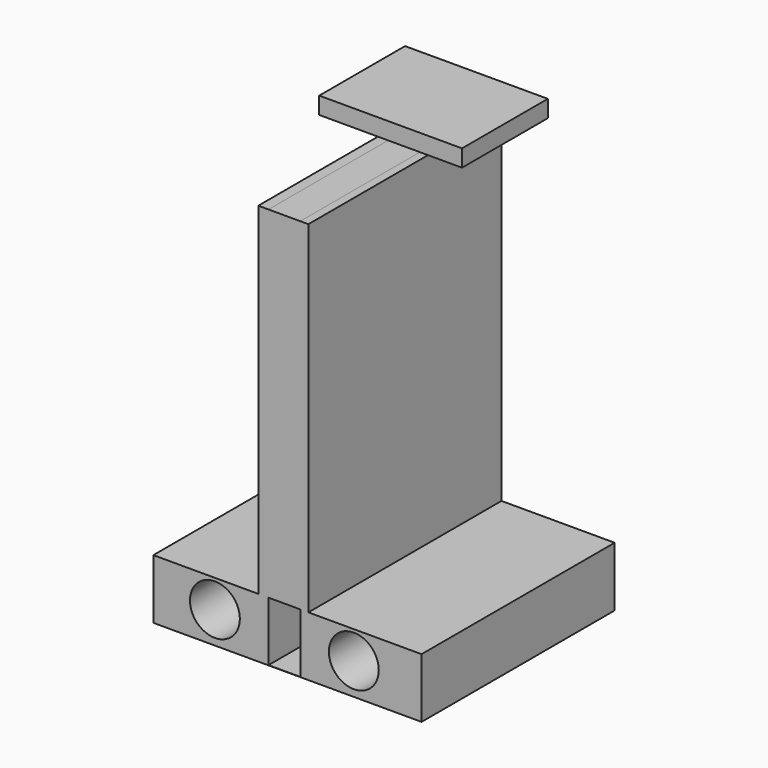
from build123d import *

# Parameters (mm, degrees)
F0_W     = 1.9
F0_H     = 63.7123174495
F0_H_2   = 11.0776825505
F0_R     = 4.65
F0_W_2   = 3.1124644447
F0_H_3   = 4.9596726424
F0_W_3   = 1.5162971947
F1_DEPTH = 20
F2_DEPTH = 25


with BuildPart() as f1:
    # F0 (on Front) → F1 (new body)
    with BuildSketch(Plane.XZ):
        with Locations((-3.9118514026, 31.8561587247)):
            Rectangle(F0_W, F0_H)
        Polygon((-1.5797154047, 63.7123174495), (-2.9618514026, 63.7123174495), (-2.9618514026, 0), (2.9618514026, 0), (2.9618514026, 63.7123174495), (2.3623339366, 63.7123174495), (1.5327490401, 63.7123174495), (1.5327490401, 58.7526448071), (-1.5797154047, 58.7526448071), align=None)
        with Locations((-3.9118514026, -5.5388412753)):
            Rectangle(F0_W, F0_H_2)
        Polygon((-4.8618514026, -11.0776825505), (-4.8618514026, 0), (-24.4243843481, 0), (-24.4243843481, -11.1197736114), (25.5756156519, -11.1197736114), (25.5756156519, 0), (4.4781485974, 0), (4.4781485974, -11.0776825505), (2.9618514026, -11.0776825505), (-2.9618514026, -11.0776825505), align=None)
        with Locations((-12.95, -5.2161915228)):
            Circle(F0_R, mode=Mode.SUBTRACT)
        with Locations((12.95, -5.2161915228)):
            Circle(F0_R, mode=Mode.SUBTRACT)
        with Locations((-0.0234831823, 61.2324811283)):
            Rectangle(F0_W_2, F0_H_3)
        with Locations((3.72, 31.8561587247)):
            Rectangle(F0_W_3, F0_H)
        with Locations((3.72, -5.5388412753)):
            Rectangle(F0_W_3, F0_H_2)
    extrude(amount=F1_DEPTH)

    # F2 (add): a face of the model
    f2_faces = [f1.faces().sort_by_distance(p)[0] for p in [
        (0.2168007051, -20, 17.8369236317),
    ]]
    extrude(f2_faces, amount=F2_DEPTH)


with BuildPart() as f1b:
    # F0 (on Front) → F1, piece 2 (new body)
    with BuildSketch(Plane.XZ):
        Polygon((-13.5003169999, 65.6306147575), (-6.70787015, 65.6306147575), (-6.727591731, 65.6511085125), (-6.727591731, 68.806245923), (-13.5003169999, 68.806245923), align=None)
        Polygon((-6.727591731, 65.6511085125), (-6.70787015, 65.6306147575), (6.70787015, 65.6306147575), (6.727591731, 65.6511085125), (6.727591731, 68.806245923), (-6.727591731, 68.806245923), align=None)
        Polygon((6.727591731, 65.6511085125), (6.70787015, 65.6306147575), (13.1187578663, 65.6306147575), (13.1187578663, 68.806245923), (6.727591731, 68.806245923), align=None)
    extrude(amount=F1_DEPTH)


solid = Compound([f1.part, f1b.part])
